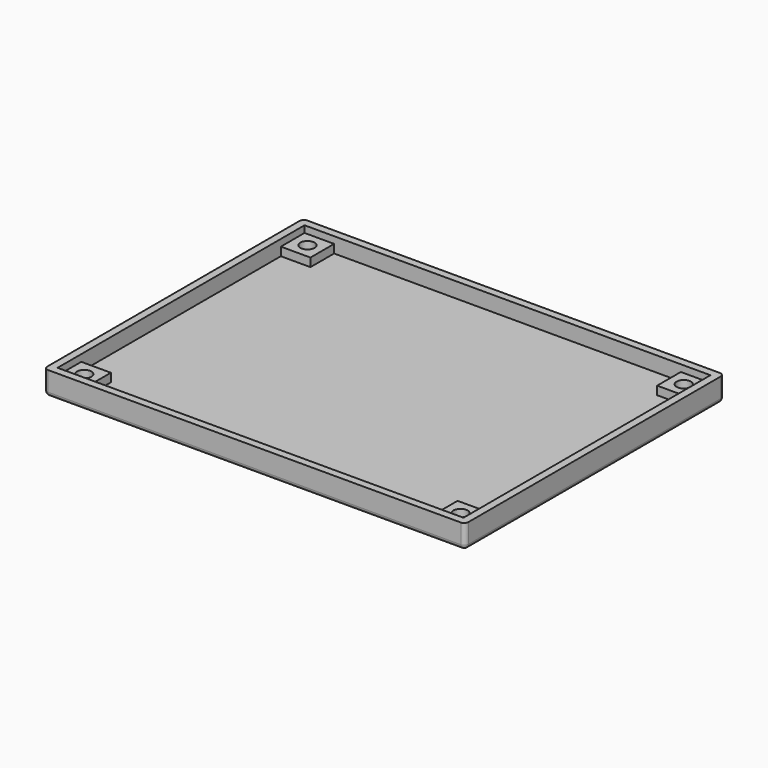
from build123d import *

# Parameters (mm, degrees)
SKETCH_W        = 99.6
SKETCH_H        = 76.6
PAD_DEPTH       = 2
SKETCH001_W     = 99.6
SKETCH001_H     = 76.6
SKETCH001_W_2   = 96
SKETCH001_H_2   = 73
PAD001_DEPTH    = 3.6
SKETCH003_W     = 7
SKETCH003_H     = 7
PAD003_DEPTH    = 2
SKETCH004_R     = 3.3
POCKET_DEPTH    = 2
SKETCH005_R     = 1.7
POCKET001_DEPTH = 5
FILLET_R        = 1
FILLET001_R     = 1
FILLET002_R     = 1
FILLET003_R     = 1
FILLET004_R     = 1


with BuildPart() as part:
    # Sketch → Pad (new body)
    with BuildSketch(Plane.XY):
        with Locations((49.8, 38.3)):
            Rectangle(SKETCH_W, SKETCH_H)
    extrude(amount=PAD_DEPTH)

    # Sketch001 (on Face6 of Pad) → Pad001 (join)
    with BuildSketch(Plane.XY.offset(2)):
        with Locations((49.8, 38.3)):
            Rectangle(SKETCH001_W, SKETCH001_H)
        with Locations((49.8, 38.3)):
            Rectangle(SKETCH001_W_2, SKETCH001_H_2, mode=Mode.SUBTRACT)
    extrude(amount=PAD001_DEPTH)

    # Sketch003 (on Face15 of Pad001) → Pad003 (join)
    with BuildSketch(Plane.XY.offset(2)):
        with Locations((5.3, 5.3)):
            Rectangle(SKETCH003_W, SKETCH003_H)
        with Locations((5.3, 71.3)):
            Rectangle(SKETCH003_W, SKETCH003_H)
        with Locations((94.3, 71.3)):
            Rectangle(SKETCH003_W, SKETCH003_H)
        with Locations((94.3, 5.3)):
            Rectangle(SKETCH003_W, SKETCH003_H)
    extrude(amount=PAD003_DEPTH)

    # Sketch004 (on Face4 of Pad003) → Pocket (cut)
    with BuildSketch(Plane(origin=(0, 0, 0), x_dir=(1, 0, 0), z_dir=(0, 0, -1))):
        with Locations((5.3, -5.3)):
            Circle(SKETCH004_R)
        with Locations((94.3, -5.3)):
            Circle(SKETCH004_R)
        with Locations((5.3, -71.3)):
            Circle(SKETCH004_R)
        with Locations((94.3, -71.3)):
            Circle(SKETCH004_R)
    extrude(amount=-POCKET_DEPTH, mode=Mode.SUBTRACT)

    # Sketch005 (on Face4 of Pocket) → Pocket001 (cut)
    with BuildSketch(Plane(origin=(0, 0, 0), x_dir=(1, 0, 0), z_dir=(0, 0, -1))):
        with Locations((5.3, -5.3)):
            Circle(SKETCH005_R)
        with Locations((5.3, -71.3)):
            Circle(SKETCH005_R)
        with Locations((94.3, -71.3)):
            Circle(SKETCH005_R)
        with Locations((94.3, -5.3)):
            Circle(SKETCH005_R)
    extrude(amount=-POCKET001_DEPTH, mode=Mode.SUBTRACT)

    # Fillet
    fillet_edges = [part.edges().sort_by_distance(p)[0] for p in [
        (0, 76.6, 3.8),
    ]]
    fillet(fillet_edges, radius=FILLET_R)

    # Fillet001
    fillet001_edges = [part.edges().sort_by_distance(p)[0] for p in [
        (0, 0, 2.8),
    ]]
    fillet(fillet001_edges, radius=FILLET001_R)

    # Fillet002
    fillet002_edges = [part.edges().sort_by_distance(p)[0] for p in [
        (99.6, 76.6, 2.8),
    ]]
    fillet(fillet002_edges, radius=FILLET002_R)

    # Fillet003
    fillet003_edges = [part.edges().sort_by_distance(p)[0] for p in [
        (99.6, 0, 2.8),
    ]]
    fillet(fillet003_edges, radius=FILLET003_R)

    # Fillet004
    fillet004_edges = [part.edges().sort_by_distance(p)[0] for p in [
        (49.8, 0, 0),
    ]]
    fillet(fillet004_edges, radius=FILLET004_R)


solid = part.part
